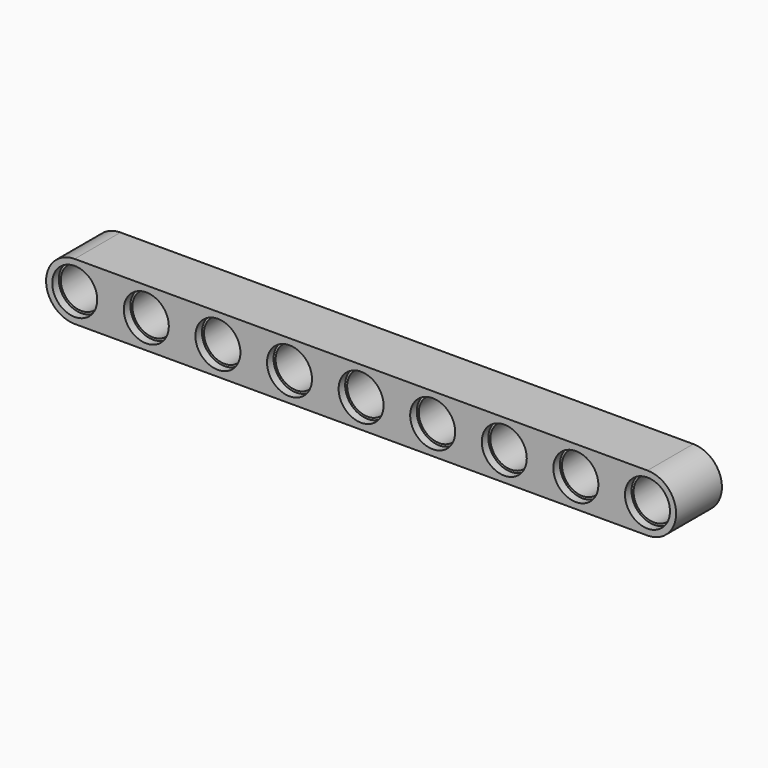
from build123d import *

# Parameters (mm, degrees)
F0_R     = 2.5
F1_DEPTH = 7
F2_R     = 2.75
F3_DEPTH = 1


with BuildPart() as f1:
    # F0 (on Front) → F1 (new body)
    with BuildSketch(Plane.XZ):
        with BuildLine():
            ThreePointArc((35, -3.5), (38.5, 0), (35, 3.5))
            Line((35, 3.5), (-35, 3.5))
            ThreePointArc((-35, 3.5), (-38.5, 0), (-35, -3.5))
            Line((-35, -3.5), (35, -3.5))
        make_face()
        with Locations((-35, 0)):
            Circle(F0_R, mode=Mode.SUBTRACT)
        with Locations((-26.25, 0)):
            Circle(F0_R, mode=Mode.SUBTRACT)
        with Locations((-17.5, 0)):
            Circle(F0_R, mode=Mode.SUBTRACT)
        with Locations((-8.75, 0)):
            Circle(F0_R, mode=Mode.SUBTRACT)
        Circle(F0_R, mode=Mode.SUBTRACT)
        with Locations((8.75, 0)):
            Circle(F0_R, mode=Mode.SUBTRACT)
        with Locations((17.5, 0)):
            Circle(F0_R, mode=Mode.SUBTRACT)
        with Locations((26.25, 0)):
            Circle(F0_R, mode=Mode.SUBTRACT)
        with Locations((35, 0)):
            Circle(F0_R, mode=Mode.SUBTRACT)
    extrude(amount=F1_DEPTH)

    # F2 (on face) → F3 (cut)
    with BuildSketch(Plane.XZ.offset(7)):
        with Locations((35, 0)):
            Circle(F2_R)
        with Locations((26.25, 0)):
            Circle(F2_R)
        with Locations((17.5, 0)):
            Circle(F2_R)
        with Locations((8.75, 0)):
            Circle(F2_R)
        Circle(F2_R)
        with Locations((-8.75, 0)):
            Circle(F2_R)
        with Locations((-17.5, 0)):
            Circle(F2_R)
        with Locations((-26.25, 0)):
            Circle(F2_R)
        with Locations((-35, 0)):
            Circle(F2_R)
    extrude(amount=-F3_DEPTH, mode=Mode.SUBTRACT)


solid = f1.part
